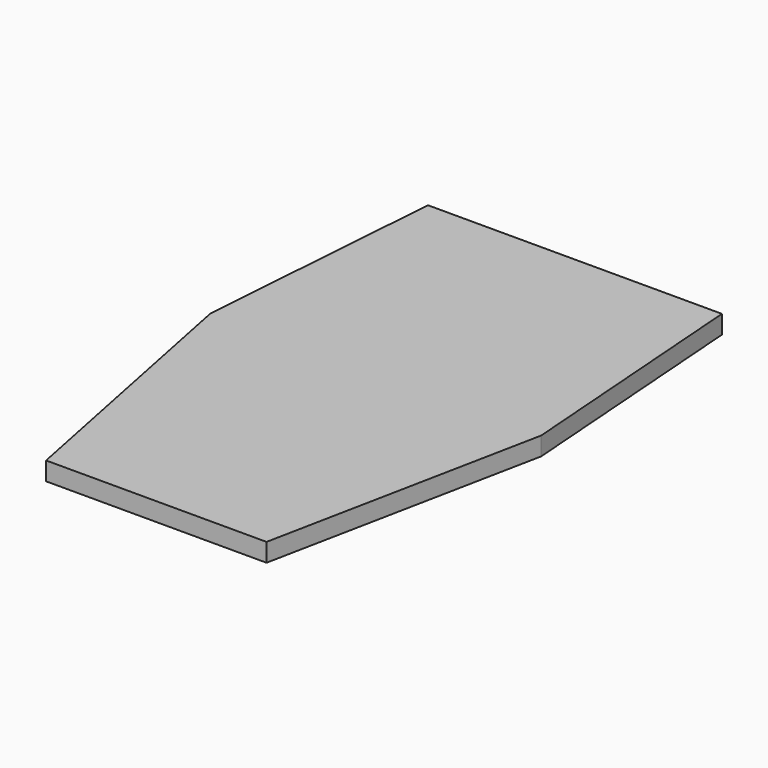
from build123d import *

# Parameters (mm, degrees)
PAD_DEPTH = 2


with BuildPart() as part:
    # Sketch → Pad (new body)
    with BuildSketch(Plane.XY):
        Polygon((-16, 27.09), (-18, 0), (-12, -29.881), (12, -29.881), (18, 0), (16, 27.09), align=None)
    extrude(amount=PAD_DEPTH)


solid = part.part
